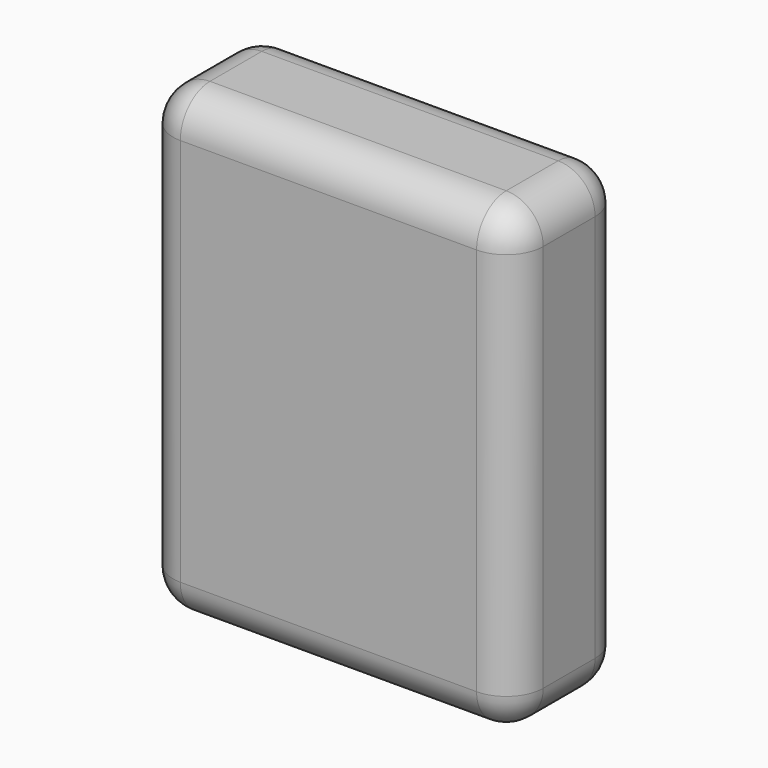
from build123d import *

# Parameters (mm, degrees)
F0_W     = 50.8
F0_H     = 63.5
F1_DEPTH = 19.05
F2_R     = 5.08
F3_R     = 5.08


with BuildPart() as f1:
    # F0 (on Front) → F1 (new body)
    with BuildSketch(Plane.XZ):
        Rectangle(F0_W, F0_H)
    extrude(amount=F1_DEPTH)

    # F2
    f2_edges = [f1.edges().sort_by_distance(p)[0] for p in [
        (-25.4, -19.05, 0),
        (0, -19.05, 31.75),
        (25.4, -19.05, 0),
        (0, -19.05, -31.75),
        (25.4, -9.525, -31.75),
        (-25.4, -9.525, -31.75),
        (25.4, -9.525, 31.75),
        (-25.4, -9.525, 31.75),
    ]]
    fillet(f2_edges, radius=F2_R)

    # F3
    f3_edges = [f1.edges().sort_by_distance(p)[0] for p in [
        (-25.4, 0, 0),
    ]]
    fillet(f3_edges, radius=F3_R)


solid = f1.part
